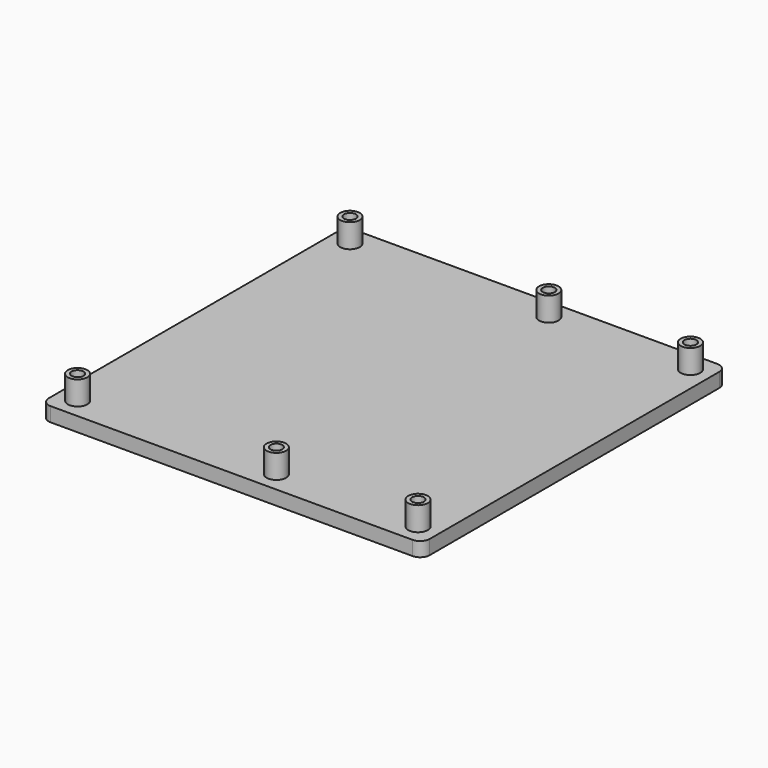
from build123d import *

# Parameters (mm, degrees)
F3_DEPTH = 3
F1_R     = 2.05
F4_DEPTH = 8
F2_R     = 1.25
F5_DEPTH = 8.001


with BuildPart() as f3:
    # F0 (on Top) → F3 (new body)
    with BuildSketch(Plane.XY):
        with BuildLine():
            Line((38, 40), (-38, 40))
            ThreePointArc((-38, 40), (-39.414214, 39.414214), (-40, 38))
            Line((-40, 38), (-40, -38))
            ThreePointArc((-40, -38), (-39.414214, -39.414214), (-38, -40))
            Line((-38, -40), (38, -40))
            ThreePointArc((38, -40), (39.414214, -39.414214), (40, -38))
            Line((40, -38), (40, 38))
            ThreePointArc((40, 38), (39.414214, 39.414214), (38, 40))
        make_face()
    extrude(amount=F3_DEPTH)

    # F1 (on Top) → F4 (join)
    with BuildSketch(Plane.XY):
        with Locations((-35.75, 35.75)):
            Circle(F1_R)
        with Locations((6, 35.75)):
            Circle(F1_R)
        with Locations((35.75, 35.75)):
            Circle(F1_R)
        with Locations((35.75, -35.75)):
            Circle(F1_R)
        with Locations((6, -35.75)):
            Circle(F1_R)
        with Locations((-35.75, -35.75)):
            Circle(F1_R)
    extrude(amount=F4_DEPTH)

    # F2 (on Top) → F5 (cut, through all)
    with BuildSketch(Plane.XY):
        with Locations((-35.75, 35.75)):
            Circle(F2_R)
        with Locations((6, 35.75)):
            Circle(F2_R)
        with Locations((35.75, 35.75)):
            Circle(F2_R)
        with Locations((35.75, -35.75)):
            Circle(F2_R)
        with Locations((6, -35.75)):
            Circle(F2_R)
        with Locations((-35.75, -35.75)):
            Circle(F2_R)
    extrude(amount=F5_DEPTH, mode=Mode.SUBTRACT)


solid = f3.part
